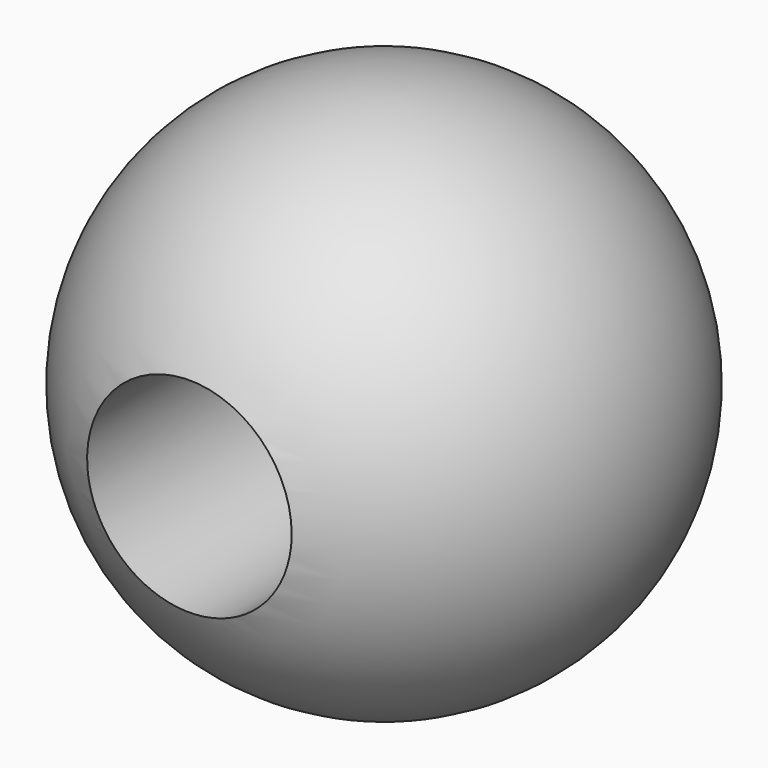
from build123d import *

# Parameters (mm, degrees)
F3_R     = 3.6917022886
F4_DEPTH = 25.4


with BuildPart() as f2:
    # F0 (on Front) → F2 (revolve)
    with BuildSketch(Plane.XZ):
        with BuildLine():
            Line((0, -9.525), (0, 9.525))
            ThreePointArc((0, 9.525), (-9.525, 0), (0, -9.525))
        make_face()
    revolve(axis=Axis((0, 0, 0), (0, 0, 1)))


with BuildPart() as f4:
    # F3 (on Front) → F4 (new body)
    with BuildSketch(Plane.XZ):
        Circle(F3_R)
    extrude(amount=F4_DEPTH)


with BuildPart() as f2_1:
    add(f2.part)

    # F5: cut F4
    add(f4.part, mode=Mode.SUBTRACT)


solid = f2_1.part
